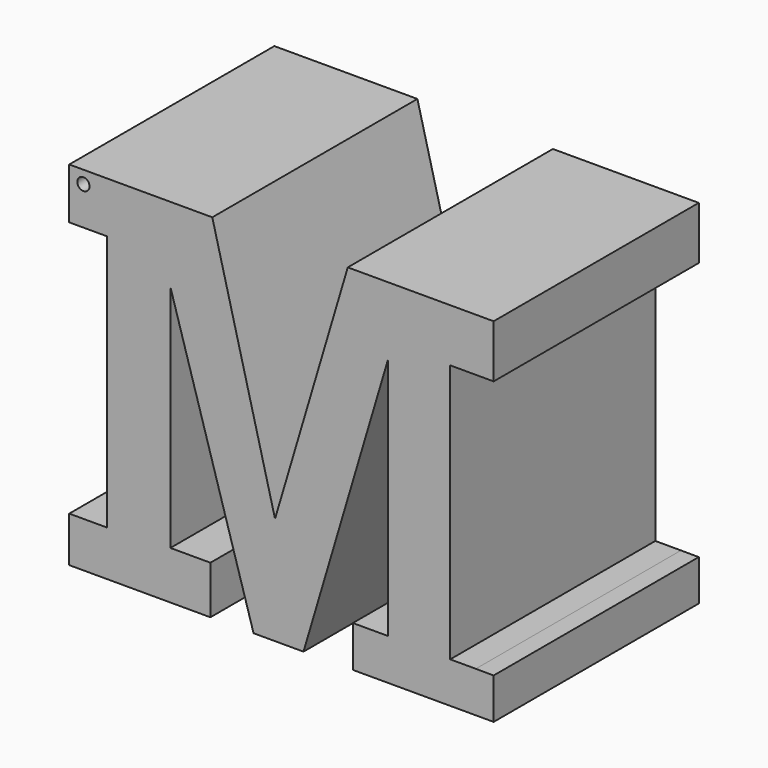
from build123d import *

# Parameters (mm, degrees)
F0_R     = 0.54548
F1_DEPTH = 22.86


with BuildPart() as f1:
    # F0 (on Front) → F1 (new body)
    with BuildSketch(Plane.XZ):
        Polygon((-31.546149, -12.525664), (-18.993298, -12.525664), (-18.993298, -8.878619), (-20.582533, -8.872862), (-22.865418, -8.872862), (-22.865418, 14.203154), (-20.582533, 14.203154), (-18.993298, 14.203154), (-18.993298, 18.924711), (-31.999168, 18.924711), (-38.48568, -2.924589), (-44.079449, 18.924711), (-56.833036, 18.924711), (-56.833036, 14.379703), (-53.468131, 14.379703), (-53.468131, -8.480297), (-56.833036, -8.480297), (-56.833036, -12.525664), (-44.248171, -12.525664), (-44.248171, -8.242098), (-47.813166, -8.242098), (-47.813166, 12.242473), (-40.400241, -12.525664), (-35.947602, -12.525664), (-28.42512, 12.813221), (-28.42512, -8.844449), (-31.546149, -8.844449), align=None)
        with Locations((-55.57109, 17.791551)):
            Circle(F0_R, mode=Mode.SUBTRACT)
    extrude(amount=F1_DEPTH)


solid = f1.part
